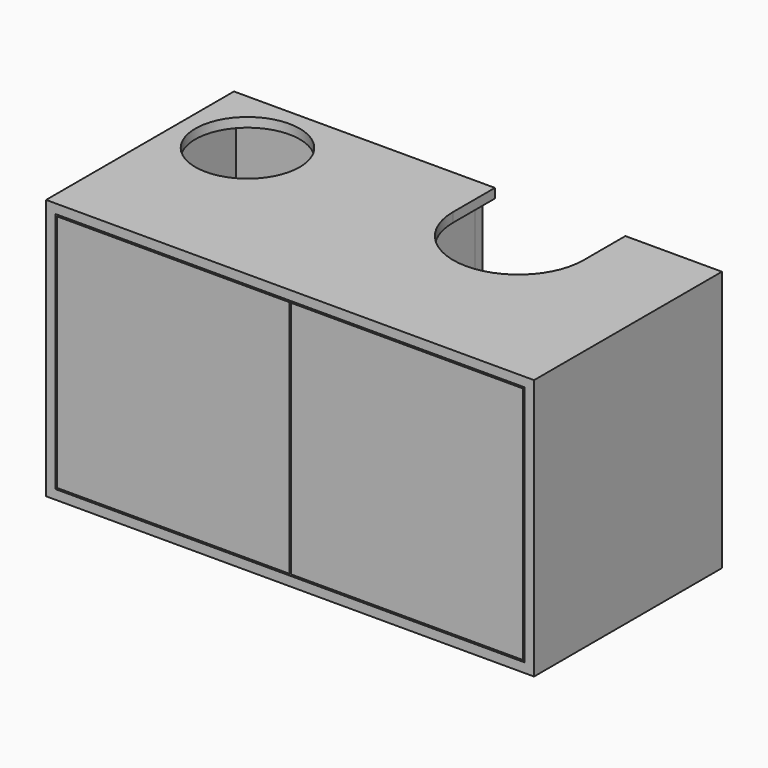
from build123d import *

# Parameters (mm, degrees)
F0_W      = 935
F0_H      = 500
F0_W_2    = 899
F0_H_2    = 464
F1_DEPTH  = 450
F2_W      = 899
F2_H      = 18
F3_DEPTH  = 430
F4_R      = 100
F5_DEPTH  = 18
F7_DEPTH  = 18
F8_W      = 445
F8_H      = 458
F9_DEPTH  = 18
F10_W     = 899
F10_H     = 223
F10_W_2   = 458.5
F11_DEPTH = 18
F12_W     = 18
F12_H     = 223
F13_DEPTH = 412


with BuildPart() as f1:
    # F0 (on Front) → F1 (new body)
    with BuildSketch(Plane.XZ):
        Rectangle(F0_W, F0_H)
        Rectangle(F0_W_2, F0_H_2, mode=Mode.SUBTRACT)
    extrude(amount=F1_DEPTH)

    # F2 (on face) → F3 (join)
    with BuildSketch(Plane(origin=(0, 0, 0), x_dir=(-1, 0, 0), z_dir=(0, 1, 0))):
        Rectangle(F2_W, F2_H)
    extrude(amount=-F3_DEPTH)

    # F4 (on face) → F5 (cut, through all)
    with BuildSketch(Plane.XY.offset(250)):
        with Locations((-337.5, -130)):
            Circle(F4_R)
    extrude(amount=-F5_DEPTH, mode=Mode.SUBTRACT)

    # F6 (on face) → F7 (cut, through all)
    with BuildSketch(Plane.XY.offset(250)):
        with BuildLine():
            Line((282.5, 0), (32.5, 0))
            Line((32.5, 0), (32.5, -60))
            Line((32.5, -60), (32.5, -100))
            ThreePointArc((32.5, -100), (157.5, -225), (282.5, -100))
            Line((282.5, -100), (282.5, -60))
            Line((282.5, -60), (282.5, 0))
        make_face()
    extrude(amount=-F7_DEPTH, mode=Mode.SUBTRACT)


with BuildPart() as f9:
    # F8 (on face) → F9 (new body)
    with BuildSketch(Plane.XZ.offset(450)):
        with Locations((224, 0)):
            Rectangle(F8_W, F8_H)
        with Locations((-224, 0)):
            Rectangle(F8_W, F8_H)
    extrude(amount=-F9_DEPTH)


with BuildPart() as f11:
    # F10 (on face) → F11 (new body)
    with BuildSketch(Plane(origin=(0, 0, 0), x_dir=(-1, 0, 0), z_dir=(0, 1, 0))):
        with Locations((0, -120.5)):
            Rectangle(F10_W, F10_H)
        with Locations((220.25, 120.5)):
            Rectangle(F10_W_2, F10_H)
    extrude(amount=-F11_DEPTH)


with BuildPart() as f13:
    # F12 (on face) → F13 (new body, through all)
    with BuildSketch(Plane.XZ.offset(18)):
        with Locations((0, 120.5)):
            Rectangle(F12_W, F12_H)
    extrude(amount=F13_DEPTH)


solid = Compound([f1.part, f9.part, f11.part, f13.part])
